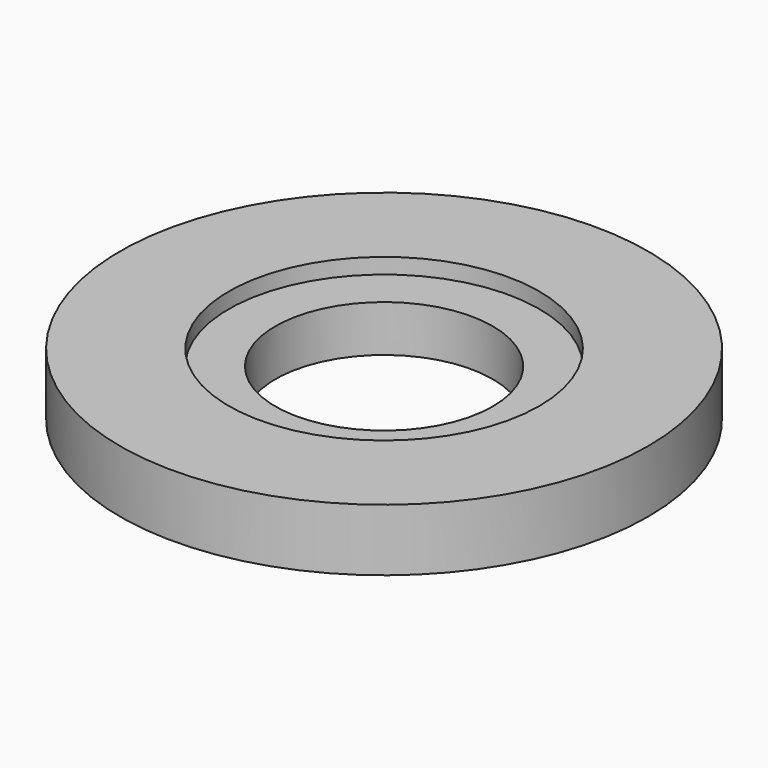
from build123d import *

# Parameters (mm, degrees)
F0_R     = 8.5
F3_DEPTH = 2
F2_R     = 5
F4_DEPTH = 5
F5_DEPTH = 1.5
F1_R     = 3.5
F6_DEPTH = 25


with BuildPart() as f3:
    # F0 (on Top) → F3 (new body)
    with BuildSketch(Plane.XY):
        Circle(F0_R)
    extrude(amount=F3_DEPTH)

    # F2 (on Top) → F4 (cut)
    with BuildSketch(Plane.XY):
        Circle(F2_R)
    extrude(amount=F4_DEPTH, mode=Mode.SUBTRACT)


with BuildPart() as f5:
    # F2 (on Top) → F5 (new body)
    with BuildSketch(Plane.XY):
        Circle(F2_R)
    extrude(amount=F5_DEPTH)

    # F1 (on Top) → F6 (cut)
    with BuildSketch(Plane.XY):
        Circle(F1_R)
    extrude(amount=F6_DEPTH, mode=Mode.SUBTRACT)


solid = Compound([f3.part, f5.part])
